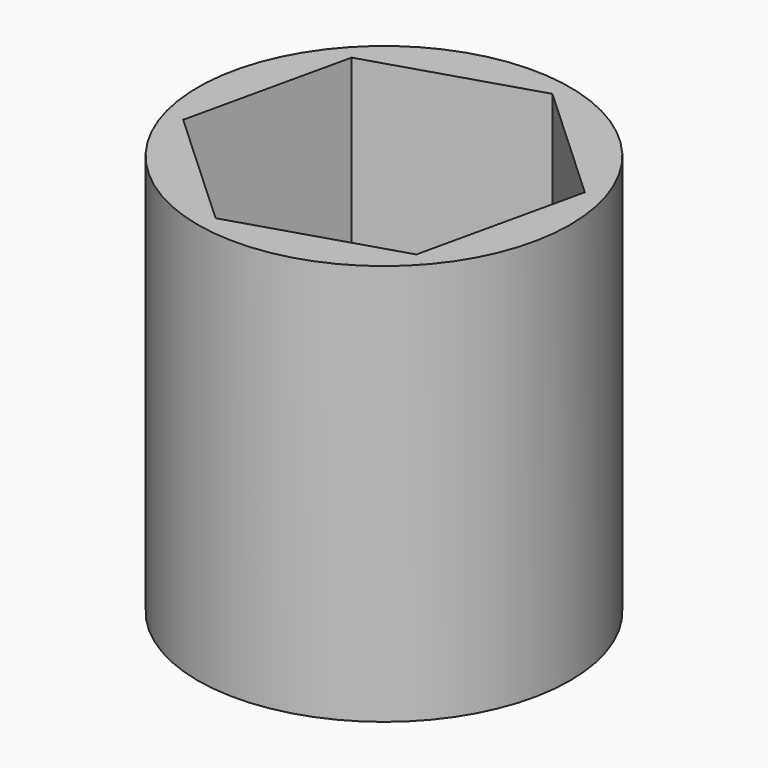
from build123d import *

# Parameters (mm, degrees)
F0_R     = 40.062229
F2_DEPTH = 86.36


with BuildPart() as f2:
    # F0 (on Top) → F2 (new body)
    with BuildSketch(Plane.XY):
        with Locations((-9.318688, 6.523077)):
            Circle(F0_R)
        Polygon((-43.916306, -4.253221), (-35.950045, 31.097344), (-1.352427, 41.873642), (25.27893, 17.299375), (17.312669, -18.05119), (-17.284949, -28.827488), align=None, mode=Mode.SUBTRACT)
    extrude(amount=F2_DEPTH)


solid = f2.part
